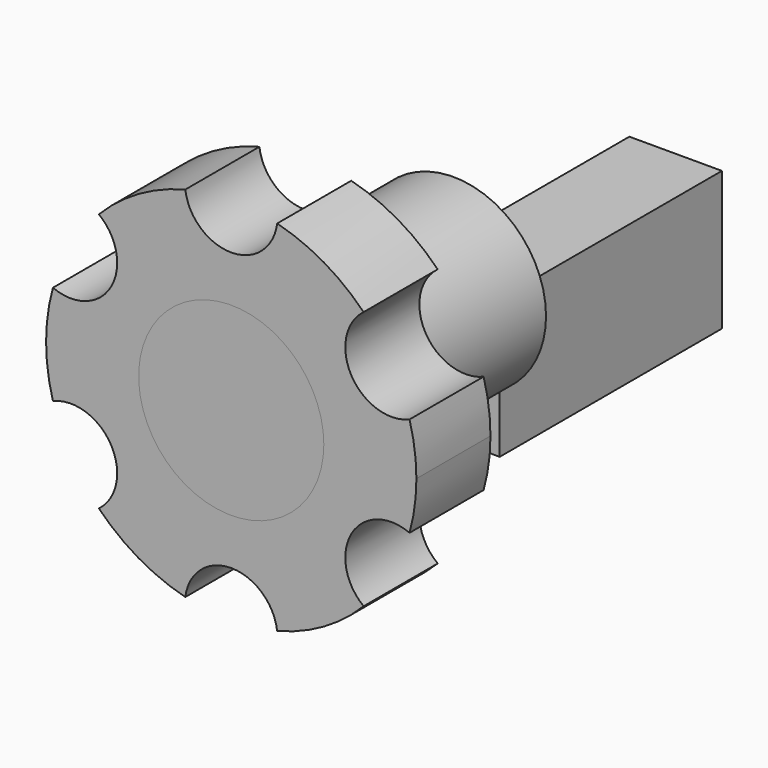
from build123d import *

# Parameters (mm, degrees)
F0_R     = 10
F1_DEPTH = 20
F2_R     = 10
F3_DEPTH = 10
F4_R     = 10
F5_DEPTH = 10
F6_W     = 10
F6_H     = 30
F7_DEPTH = 15


with BuildPart() as f1:
    # F0 (on Front) → F1 (new body)
    with BuildSketch(Plane.XZ):
        Circle(F0_R)
    extrude(amount=F1_DEPTH)

    # F6 (on Top) → F7 (join)
    with BuildSketch(Plane.XY):
        with Locations((0, 15)):
            Rectangle(F6_W, F6_H)
    extrude(amount=-F7_DEPTH)


with BuildPart() as f3:
    # F2 (on face) → F3 (new body)
    with BuildSketch(Plane.XZ.offset(20)):
        with BuildLine():
            ThreePointArc((19.259634, -5.391335), (19.814044, -2.720967), (20, 0))
            ThreePointArc((20, 0), (19.814044, 2.720967), (19.259634, 5.391335))
            ThreePointArc((19.259634, 5.391335), (12.990381, 7.5), (14.29885, 13.983665))
            ThreePointArc((14.29885, 13.983665), (10, 17.320508), (4.960784, 19.375))
            ThreePointArc((4.960784, 19.375), (0, 15), (-4.960784, 19.375))
            ThreePointArc((-4.960784, 19.375), (-10, 17.320508), (-14.29885, 13.983665))
            ThreePointArc((-14.29885, 13.983665), (-12.842323, 12.223928), (-12.320508, 10))
            ThreePointArc((-12.320508, 10), (-14.55425, 5.834929), (-19.259634, 5.391335))
            ThreePointArc((-19.259634, 5.391335), (-20, 0), (-19.259634, -5.391335))
            ThreePointArc((-19.259634, -5.391335), (-14.55425, -5.834929), (-12.320508, -10))
            ThreePointArc((-12.320508, -10), (-12.842323, -12.223928), (-14.29885, -13.983665))
            ThreePointArc((-14.29885, -13.983665), (-10, -17.320508), (-4.960784, -19.375))
            ThreePointArc((-4.960784, -19.375), (0, -15), (4.960784, -19.375))
            ThreePointArc((4.960784, -19.375), (10, -17.320508), (14.29885, -13.983665))
            ThreePointArc((14.29885, -13.983665), (12.990381, -7.5), (19.259634, -5.391335))
        make_face()
        Circle(F2_R, mode=Mode.SUBTRACT)
    extrude(amount=F3_DEPTH)


with BuildPart() as f5:
    # F4 (on face) → F5 (new body)
    with BuildSketch(Plane.XZ.offset(20)):
        Circle(F4_R)
    extrude(amount=F5_DEPTH)


solid = Compound([f1.part, f3.part, f5.part])
